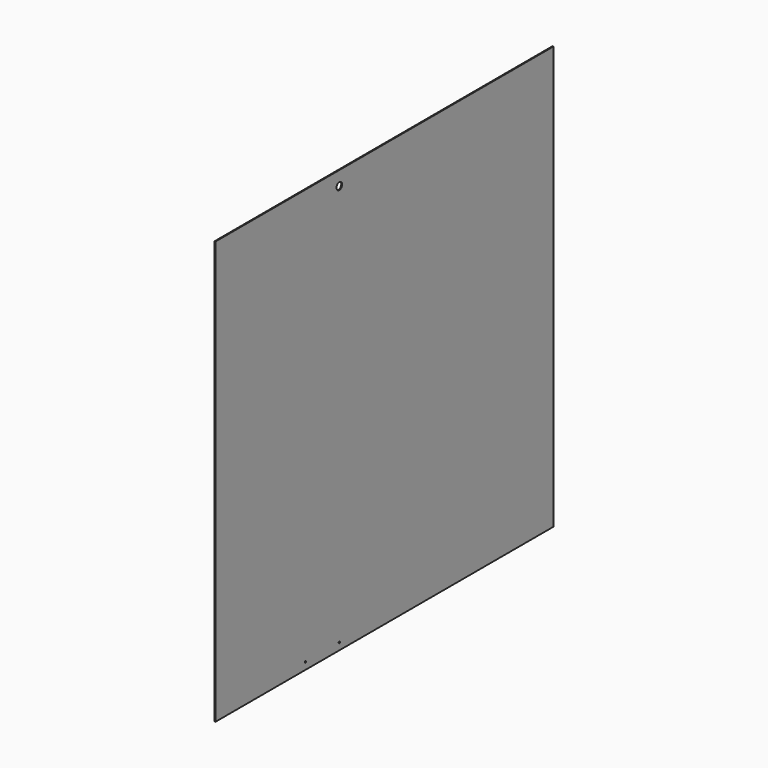
from build123d import *

# Parameters (mm, degrees)
F0_W     = 1524
F0_H     = 1524
F1_DEPTH = 3.175
F2_D     = 6.35
F3_D     = 6.35
F4_D     = 25.4


with BuildPart() as f1:
    # F0 (on Right) → F1 (new body)
    with BuildSketch(Plane.YZ):
        with Locations((762, 762)):
            Rectangle(F0_W, F0_H)
    extrude(amount=F1_DEPTH)

    # F2 (through all)
    with Locations(Plane(origin=(0, 0, 0), x_dir=(0, 1, 0), z_dir=(-1, 0, 0))):
        with Locations((406.4, -25.4)):
            Hole(F2_D / 2)

    # F3 (through all)
    with Locations(Plane(origin=(0, 0, 0), x_dir=(0, 1, 0), z_dir=(-1, 0, 0))):
        with Locations((558.8, -25.4)):
            Hole(F3_D / 2)

    # F4 (through all)
    with Locations(Plane(origin=(0, 0, 0), x_dir=(0, 1, 0), z_dir=(-1, 0, 0))):
        with Locations((558.8, -1473.2)):
            Hole(F4_D / 2)


solid = f1.part
